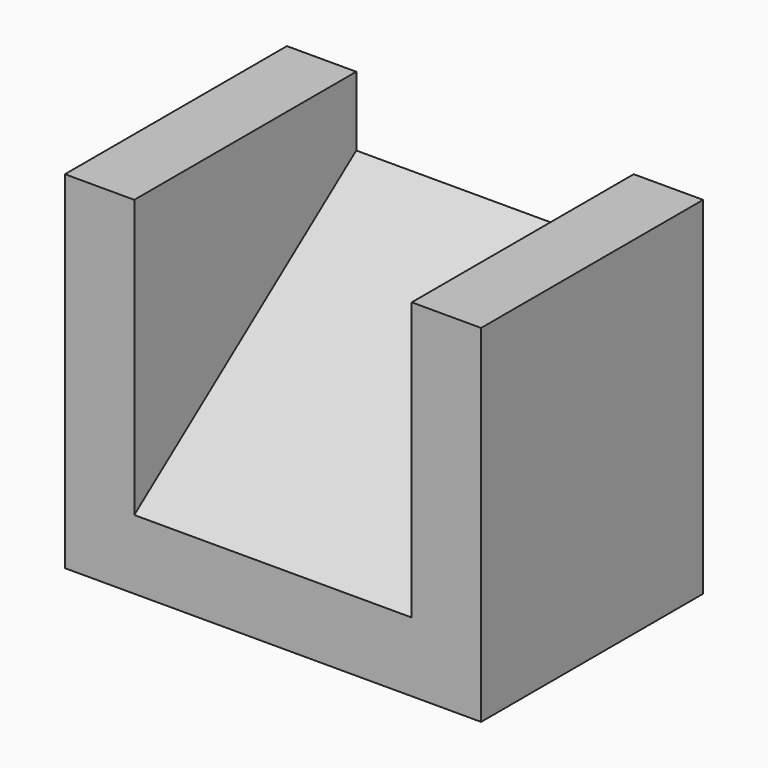
from build123d import *

# Parameters (mm, degrees)
F0_W     = 20
F0_H     = 20
F1_DEPTH = 20
F3_W     = 20
F3_H     = 20
F3_H_2   = 5
F4_DEPTH = 5
F5_DEPTH = 20
F2_W     = 20
F2_H     = 5
F6_DEPTH = 5


with BuildPart() as f1:
    # F0 (on Right) → F1 (new body)
    with BuildSketch(Plane.YZ):
        with Locations((10, 10)):
            Rectangle(F0_W, F0_H)
    extrude(amount=-F1_DEPTH)

    # F3 (on face) → F4 (join)
    with BuildSketch(Plane(origin=(-20, 0, 0), x_dir=(0, -1, 0), z_dir=(-1, 0, 0))):
        with Locations((-10, 10)):
            Rectangle(F3_W, F3_H)
        with Locations((-10, 22.5)):
            Rectangle(F3_W, F3_H_2)
    extrude(amount=F4_DEPTH)

    # F2 (on face) → F5 (cut)
    with BuildSketch(Plane.YZ):
        Polygon((0, 5), (20, 20), (0, 20), align=None)
    extrude(amount=-F5_DEPTH, mode=Mode.SUBTRACT)

    # F2 (on face) → F6 (join)
    with BuildSketch(Plane.YZ):
        with Locations((10, 22.5)):
            Rectangle(F2_W, F2_H)
        Polygon((0, 5), (20, 20), (0, 20), align=None)
        Polygon((0, 0), (20, 0), (20, 20), (0, 5), align=None)
    extrude(amount=F6_DEPTH)


solid = f1.part
